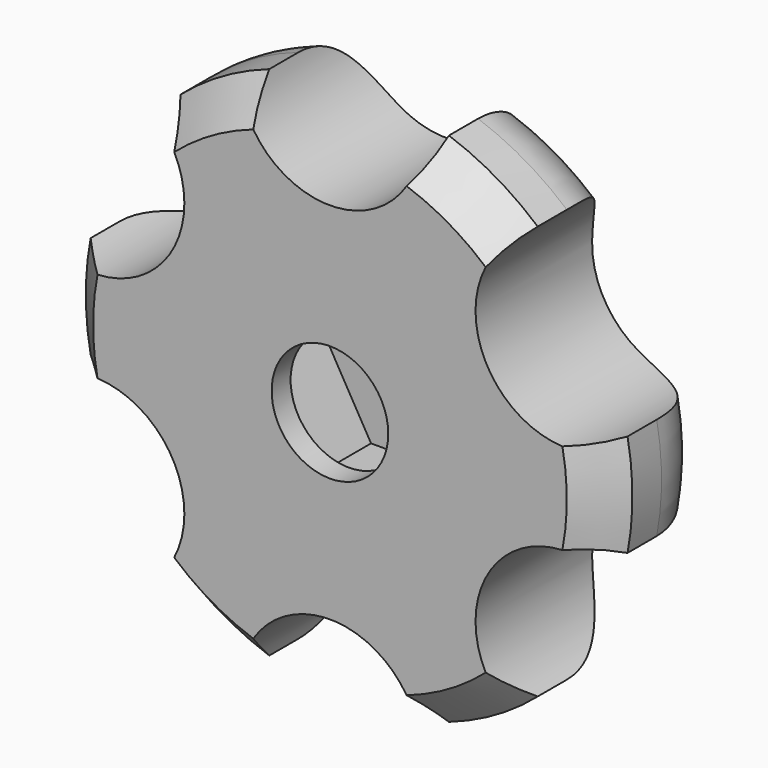
from build123d import *

# Parameters (mm, degrees)
SKETCH016_R             = 5
POCKET002_DEPTH         = 8.001
POCKET003_DEPTH         = 5.2
BODY011_PLACEMENT_ANGLE = 270


with BuildPart() as part:
    # Sketch014 → Revolution (revolve)
    with BuildSketch(Plane.XZ):
        with BuildLine():
            ThreePointArc((15, -4), (13.828427, -1.171573), (11, 0))
            Line((3.2, 0), (11, 0))
            Line((3.2, 0), (3.2, -8))
            Line((3.2, -8), (13, -8))
            Line((13, -8), (15, -6))
            Line((15, -6), (15, -4))
        make_face()
    revolve(axis=Axis((0, 0, 0), (0, 0, 1)))

    # Sketch016 → Pocket002 (cut, through all)
    with BuildSketch(Plane.XY):
        with Locations((0, 15)):
            Circle(SKETCH016_R)
        with Locations((12.990381, 7.5)):
            Circle(SKETCH016_R)
        with Locations((12.990381, -7.5)):
            Circle(SKETCH016_R)
        with Locations((0, -15)):
            Circle(SKETCH016_R)
        with Locations((-12.990381, -7.5)):
            Circle(SKETCH016_R)
        with Locations((-12.990381, 7.5)):
            Circle(SKETCH016_R)
    extrude(amount=-POCKET002_DEPTH, mode=Mode.SUBTRACT)

    # Sketch015 → Pocket003 (cut)
    with BuildSketch(Plane.XY.offset(-1.5)):
        Polygon((5.888973, 0), (2.944486, 5.1), (-2.944486, 5.1), (-5.888973, 0), (-2.944486, -5.1), (2.944486, -5.1), align=None)
    extrude(amount=-POCKET003_DEPTH, mode=Mode.SUBTRACT)


with BuildPart() as part_1:
    # Body011 placement: moved
    add(part.part.moved(Location((22.5, -70, 0))).rotate(Axis((22.5, -70, 0), (1, 0, 0)), BODY011_PLACEMENT_ANGLE))


solid = part_1.part
